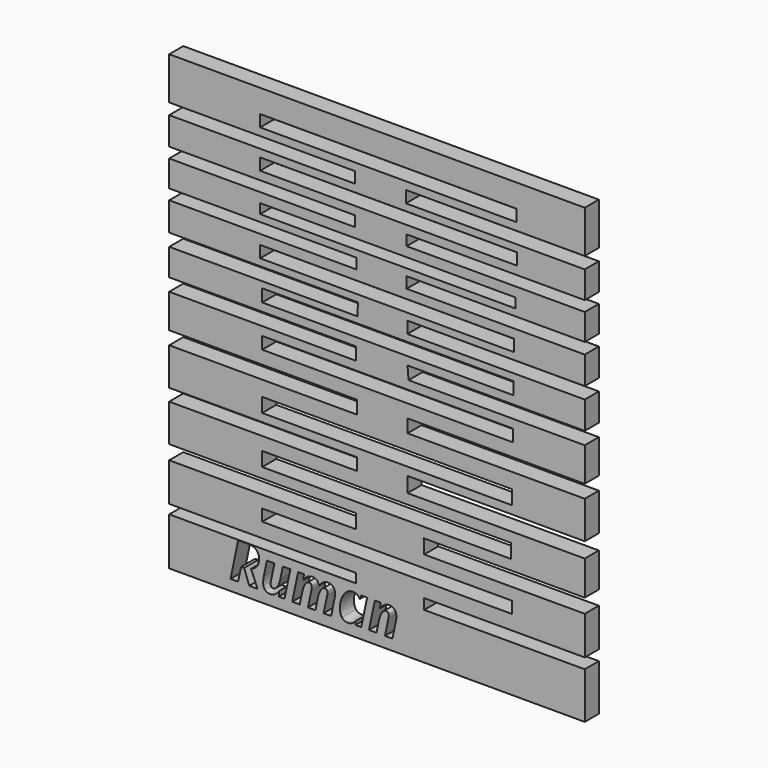
from build123d import *

# Parameters (mm, degrees)
F0_W     = 71.0323043168
F0_H     = 3.3161565661
F0_W_2   = 70.6573799253
F0_H_2   = 4.0292833
F0_W_3   = 70.9451846778
F0_H_3   = 4.0292795748
F0_W_4   = 71.2329894304
F0_H_4   = 3.4536689054
F0_W_5   = 71.4269280434
F0_H_5   = 3.5516149364
F0_W_6   = 72.2161792219
F0_H_6   = 3.3543054014
F0_W_7   = 72.6108029485
F0_H_7   = 2.7623660862
F0_W_8   = 73.0054229498
F0_H_8   = 3.3543035388
F0_W_9   = 72.8081129491
F0_H_9   = 3.3542998135
F1_DEPTH = 5


with BuildPart() as f1:
    # F0 (on Front) → F1 (new body)
    with BuildSketch(Plane.XZ):
        Polygon((56.8416342139, 59.4318918884), (-61.2653642893, 59.4318918884), (-61.2653642893, 47.3548732698), (-8.3857579157, 47.3548732698), (-8.3857579157, 44.1978834569), (-61.2653642893, 44.1978834569), (-61.2653642893, 36.3054014742), (-8.3857579157, 36.3054014742), (-8.3857579157, 33.345721662), (-61.2653642893, 33.345721662), (-61.2653642893, 25.8478671312), (-7.9911341891, 25.8478671312), (-7.9911341891, 22.8881891817), (-61.2653642893, 22.8881891817), (-61.2653642893, 14.7983971983), (-7.5965109281, 14.7983971983), (-7.7938223258, 11.2467817962), (-61.2653642893, 11.2467817962), (-61.2653642893, 3.597572213), (-8.2024643198, 3.597572213), (-8.2024643198, 0), (-61.2653642893, 0), (-61.2653642893, -9.6414927393), (-7.9146586359, -9.6414927393), (-7.9146586359, -13.3829684928), (-61.2653642893, -13.3829684928), (-61.2653642893, -24.0317825228), (-7.9146586359, -24.0317825228), (-7.9146586359, -27.4854488671), (-61.2653642893, -27.4854488671), (-61.2653642893, -38.1342619658), (-8.2024643198, -38.1342619658), (-8.2024643198, -42.1635434031), (-61.2653642893, -42.1635434031), (-61.2653642893, -53.0769191682), (-8.2024643198, -53.0769191682), (-8.2024643198, -55.6904152036), (-61.2653642893, -55.6904152036), (-61.2653642893, -69.217287004), (56.8416342139, -69.217287004), (56.8416342139, -56.0365952551), (11.2064361529, -56.0365952551), (11.2064361529, -53.0769191682), (56.8416342139, -53.0769191682), (56.8416342139, -42.1635434031), (11.2064361529, -42.1635434031), (11.0805211589, -38.1342619658), (56.8416342139, -38.1342619658), (56.8416342139, -28.3488668501), (6.4756311476, -28.3488668501), (6.4756311476, -24.0317825228), (56.8416342139, -24.0317825228), (56.8416342139, -13.3829684928), (6.4756311476, -13.3829684928), (6.4756311476, -9.6414927393), (56.8416342139, -9.6414927393), (56.8416342139, 0), (6.7634368315, 0), (6.4756311476, 3.597572213), (56.8416342139, 3.597572213), (56.8416342139, 11.4440945908), (6.4126392826, 11.4440945908), (6.4126392826, 14.7983971983), (56.8416342139, 14.7983971983), (56.8416342139, 22.6908754557), (6.215327885, 22.6908754557), (6.215327885, 25.8478671312), (56.8416342139, 25.8478671312), (56.8416342139, 33.345721662), (6.215327885, 33.345721662), (6.215327885, 36.3054014742), (56.8416342139, 36.3054014742), (56.8416342139, 44.0005660057), (6.0180136934, 44.0005660057), (6.0180136934, 47.3548732698), (56.8416342139, 47.3548732698), align=None)
        with BuildLine():
            Line((-39.9708433106, -62.1806918821), (-40.8165115853, -62.1806918821))
            Line((-40.8165115853, -62.1806918821), (-41.6621798601, -66.1657899618))
            Line((-41.6621798601, -66.1657899618), (-43.8286364887, -66.1657899618))
            Line((-43.8286364887, -66.1657899618), (-41.6349002383, -55.7790739743))
            Line((-41.6349002383, -55.7790739743), (-39.0842556032, -55.7790739743))
            add(Edge.make_bspline(
                [(-39.0842556032, -55.7790739743), (-37.3997389591, -55.7790739743), (-36.5540706844, -56.5042572529)],
                knots=[0, 0, 0, 1, 1, 1], degree=2))
            add(Edge.make_bspline(
                [(-36.5540706844, -56.5042572529), (-35.7084024096, -57.2294405316), (-35.7084024096, -58.6275211471)],
                knots=[0, 0, 0, 1, 1, 1], degree=2))
            add(Edge.make_bspline(
                [(-35.7084024096, -58.6275211471), (-35.7084024096, -59.7505322431), (-36.2983242303, -60.5564177361)],
                knots=[0, 0, 0, 1, 1, 1], degree=2))
            add(Edge.make_bspline(
                [(-36.2983242303, -60.5564177361), (-36.888246051, -61.3623032291), (-37.9976173362, -61.7533111411)],
                knots=[0, 0, 0, 1, 1, 1], degree=2))
            Line((-37.9976173362, -61.7533111411), (-36.1426030561, -66.1657899618))
            Line((-36.1426030561, -66.1657899618), (-38.5022903388, -66.1657899618))
            Line((-38.5022903388, -66.1657899618), (-39.9708433106, -62.1806918821))
        make_face(mode=Mode.SUBTRACT)
        with BuildLine():
            Line((-34.3876140558, -62.5148672488), (-33.4851132357, -58.2228734242))
            Line((-33.4851132357, -58.2228734242), (-31.3482095306, -58.2228734242))
            Line((-31.3482095306, -58.2228734242), (-32.321182707, -62.8626824263))
            add(Edge.make_bspline(
                [(-32.321182707, -62.8626824263), (-32.4348477977, -63.3446224108), (-32.4348477977, -63.708350701)],
                knots=[0, 0, 0, 1, 1, 1], degree=2))
            add(Edge.make_bspline(
                [(-32.4348477977, -63.708350701), (-32.4348477977, -64.5812985976), (-31.6664717846, -64.5812985976)],
                knots=[0, 0, 0, 1, 1, 1], degree=2))
            add(Edge.make_bspline(
                [(-31.6664717846, -64.5812985976), (-31.014034164, -64.5812985976), (-30.4809448886, -63.7720031518)],
                knots=[0, 0, 0, 1, 1, 1], degree=2))
            add(Edge.make_bspline(
                [(-30.4809448886, -63.7720031518), (-29.9478556133, -62.9627077061), (-29.6432331702, -61.5123411489)],
                knots=[0, 0, 0, 1, 1, 1], degree=2))
            Line((-29.6432331702, -61.5123411489), (-28.9453295134, -58.2228734242))
            Line((-28.9453295134, -58.2228734242), (-26.8084258084, -58.2228734242))
            Line((-26.8084258084, -58.2228734242), (-28.4906691506, -66.1657899618))
            Line((-28.4906691506, -66.1657899618), (-30.1251731548, -66.1657899618))
            Line((-30.1251731548, -66.1657899618), (-29.9751352351, -64.6949636883))
            Line((-29.9751352351, -64.6949636883), (-30.0183279695, -64.6949636883))
            add(Edge.make_bspline(
                [(-30.0183279695, -64.6949636883), (-31.0481336912, -66.3090079761), (-32.5416929829, -66.3090079761)],
                knots=[0, 0, 0, 1, 1, 1], degree=2))
            add(Edge.make_bspline(
                [(-32.5416929829, -66.3090079761), (-33.5214860647, -66.3090079761), (-34.0397988782, -65.7224961081)],
                knots=[0, 0, 0, 1, 1, 1], degree=2))
            add(Edge.make_bspline(
                [(-34.0397988782, -65.7224961081), (-34.5581116918, -65.1359842401), (-34.5581116918, -64.026612955)],
                knots=[0, 0, 0, 1, 1, 1], degree=2))
            add(Edge.make_bspline(
                [(-34.5581116918, -64.026612955), (-34.5581116918, -63.367355429), (-34.3876140558, -62.5148672488)],
                knots=[0, 0, 0, 1, 1, 1], degree=2))
        make_face(mode=Mode.SUBTRACT)
        with BuildLine():
            add(Edge.make_bspline(
                [(-23.0847574373, -59.6936996978), (-22.0481318102, -58.0751088063), (-20.5613924239, -58.0751088063)],
                knots=[0, 0, 0, 1, 1, 1], degree=2))
            add(Edge.make_bspline(
                [(-20.5613924239, -58.0751088063), (-19.0064539832, -58.0751088063), (-18.7018315402, -59.6936996978)],
                knots=[0, 0, 0, 1, 1, 1], degree=2))
            Line((-18.7018315402, -59.6936996978), (-18.6586388057, -59.6936996978))
            add(Edge.make_bspline(
                [(-18.6586388057, -59.6936996978), (-18.1744255193, -58.9116838738), (-17.5174412951, -58.4933963401)],
                knots=[0, 0, 0, 1, 1, 1], degree=2))
            add(Edge.make_bspline(
                [(-17.5174412951, -58.4933963401), (-16.8604570709, -58.0751088063), (-16.114814076, -58.0751088063)],
                knots=[0, 0, 0, 1, 1, 1], degree=2))
            add(Edge.make_bspline(
                [(-16.114814076, -58.0751088063), (-15.1486608051, -58.0751088063), (-14.6405778497, -58.6786704379)],
                knots=[0, 0, 0, 1, 1, 1], degree=2))
            add(Edge.make_bspline(
                [(-14.6405778497, -58.6786704379), (-14.1324948943, -59.2822320695), (-14.1324948943, -60.362050431)],
                knots=[0, 0, 0, 1, 1, 1], degree=2))
            add(Edge.make_bspline(
                [(-14.1324948943, -60.362050431), (-14.1324948943, -60.9008229609), (-14.2961726249, -61.6396460504)],
                knots=[0, 0, 0, 1, 1, 1], degree=2))
            Line((-14.2961726249, -61.6396460504), (-15.2418661795, -66.1657899618))
            Line((-15.2418661795, -66.1657899618), (-17.3787698845, -66.1657899618))
            Line((-17.3787698845, -66.1657899618), (-16.3989768027, -61.5259809597))
            add(Edge.make_bspline(
                [(-16.3989768027, -61.5259809597), (-16.285311712, -61.0440409752), (-16.285311712, -60.680312685)],
                knots=[0, 0, 0, 1, 1, 1], degree=2))
            add(Edge.make_bspline(
                [(-16.285311712, -60.680312685), (-16.285311712, -59.8073647885), (-16.9809420671, -59.8073647885)],
                knots=[0, 0, 0, 1, 1, 1], degree=2))
            add(Edge.make_bspline(
                [(-16.9809420671, -59.8073647885), (-17.6356529895, -59.8073647885), (-18.1653323121, -60.6030204233)],
                knots=[0, 0, 0, 1, 1, 1], degree=2))
            add(Edge.make_bspline(
                [(-18.1653323121, -60.6030204233), (-18.6950116347, -61.3986760582), (-19.0064539832, -62.8626824263)],
                knots=[0, 0, 0, 1, 1, 1], degree=2))
            Line((-19.0064539832, -62.8626824263), (-19.6884445274, -66.1657899618))
            Line((-19.6884445274, -66.1657899618), (-21.8276215342, -66.1657899618))
            Line((-21.8276215342, -66.1657899618), (-20.8546483579, -61.5259809597))
            add(Edge.make_bspline(
                [(-20.8546483579, -61.5259809597), (-20.7409832672, -61.0440409752), (-20.7409832672, -60.680312685)],
                knots=[0, 0, 0, 1, 1, 1], degree=2))
            add(Edge.make_bspline(
                [(-20.7409832672, -60.680312685), (-20.7409832672, -59.8073647885), (-21.4366136222, -59.8073647885)],
                knots=[0, 0, 0, 1, 1, 1], degree=2))
            add(Edge.make_bspline(
                [(-21.4366136222, -59.8073647885), (-22.0890512428, -59.8073647885), (-22.6221405182, -60.6177968851)],
                knots=[0, 0, 0, 1, 1, 1], degree=2))
            add(Edge.make_bspline(
                [(-22.6221405182, -60.6177968851), (-23.1552297935, -61.4282289817), (-23.4598522366, -62.8763222372)],
                knots=[0, 0, 0, 1, 1, 1], degree=2))
            Line((-23.4598522366, -62.8763222372), (-24.1577558934, -66.1657899618))
            Line((-24.1577558934, -66.1657899618), (-26.2946595984, -66.1657899618))
            Line((-26.2946595984, -66.1657899618), (-24.6124162562, -58.2228734242))
            Line((-24.6124162562, -58.2228734242), (-22.977912252, -58.2228734242))
            Line((-22.977912252, -58.2228734242), (-23.1279501717, -59.6936996978))
            Line((-23.1279501717, -59.6936996978), (-23.0847574373, -59.6936996978))
        make_face(mode=Mode.SUBTRACT)
        with BuildLine():
            add(Edge.make_bspline(
                [(-8.2423698946, -65.1359842401), (-9.1948833546, -66.3090079761), (-10.508851803, -66.3090079761)],
                knots=[0, 0, 0, 1, 1, 1], degree=2))
            add(Edge.make_bspline(
                [(-10.508851803, -66.3090079761), (-11.5545706374, -66.3090079761), (-12.1547223163, -65.5519984721)],
                knots=[0, 0, 0, 1, 1, 1], degree=2))
            add(Edge.make_bspline(
                [(-12.1547223163, -65.5519984721), (-12.7548739951, -64.7949889681), (-12.7548739951, -63.4310078797)],
                knots=[0, 0, 0, 1, 1, 1], degree=2))
            add(Edge.make_bspline(
                [(-12.7548739951, -63.4310078797), (-12.7548739951, -62.023834057), (-12.243381087, -60.7485117394)],
                knots=[0, 0, 0, 1, 1, 1], degree=2))
            add(Edge.make_bspline(
                [(-12.243381087, -60.7485117394), (-11.7318881789, -59.4731894218), (-10.899859715, -58.7741491141)],
                knots=[0, 0, 0, 1, 1, 1], degree=2))
            add(Edge.make_bspline(
                [(-10.899859715, -58.7741491141), (-10.0678312511, -58.0751088063), (-9.0743983585, -58.0751088063)],
                knots=[0, 0, 0, 1, 1, 1], degree=2))
            add(Edge.make_bspline(
                [(-9.0743983585, -58.0751088063), (-8.3855879089, -58.0751088063), (-7.8843248589, -58.3729113439)],
                knots=[0, 0, 0, 1, 1, 1], degree=2))
            add(Edge.make_bspline(
                [(-7.8843248589, -58.3729113439), (-7.383061809, -58.6707138815), (-7.1057189877, -59.239039335)],
                knots=[0, 0, 0, 1, 1, 1], degree=2))
            Line((-7.1057189877, -59.239039335), (-7.0488864423, -59.239039335))
            Line((-7.0488864423, -59.239039335), (-6.6442387195, -58.2228734242))
            Line((-6.6442387195, -58.2228734242), (-4.9960949044, -58.2228734242))
            Line((-4.9960949044, -58.2228734242), (-6.6874314539, -66.1657899618))
            Line((-6.6874314539, -66.1657899618), (-8.3151155527, -66.1657899618))
            Line((-8.3151155527, -66.1657899618), (-8.2150902728, -65.1359842401))
            Line((-8.2150902728, -65.1359842401), (-8.2423698946, -65.1359842401))
        make_face(mode=Mode.SUBTRACT)
        with BuildLine():
            Line((3.1377789855, -61.6396460504), (2.192085431, -66.1657899618))
            Line((2.192085431, -66.1657899618), (0.055181726, -66.1657899618))
            Line((0.055181726, -66.1657899618), (1.0281549023, -61.5259809597))
            add(Edge.make_bspline(
                [(1.0281549023, -61.5259809597), (1.141819993, -61.0440409752), (1.141819993, -60.680312685)],
                knots=[0, 0, 0, 1, 1, 1], degree=2))
            add(Edge.make_bspline(
                [(1.141819993, -60.680312685), (1.141819993, -59.8073647885), (0.3734439799, -59.8073647885)],
                knots=[0, 0, 0, 1, 1, 1], degree=2))
            add(Edge.make_bspline(
                [(0.3734439799, -59.8073647885), (-0.2789936407, -59.8073647885), (-0.812082916, -60.6177968851)],
                knots=[0, 0, 0, 1, 1, 1], degree=2))
            add(Edge.make_bspline(
                [(-0.812082916, -60.6177968851), (-1.3451721914, -61.4282289817), (-1.6497946344, -62.8763222372)],
                knots=[0, 0, 0, 1, 1, 1], degree=2))
            Line((-1.6497946344, -62.8763222372), (-2.3476982913, -66.1657899618))
            Line((-2.3476982913, -66.1657899618), (-4.4846019963, -66.1657899618))
            Line((-4.4846019963, -66.1657899618), (-2.8023586541, -58.2228734242))
            Line((-2.8023586541, -58.2228734242), (-1.1678546499, -58.2228734242))
            Line((-1.1678546499, -58.2228734242), (-1.3178925696, -59.6936996978))
            Line((-1.3178925696, -59.6936996978), (-1.2746998351, -59.6936996978))
            add(Edge.make_bspline(
                [(-1.2746998351, -59.6936996978), (-0.238074208, -58.0751088063), (1.2486651782, -58.0751088063)],
                knots=[0, 0, 0, 1, 1, 1], degree=2))
            add(Edge.make_bspline(
                [(1.2486651782, -58.0751088063), (2.22845826, -58.0751088063), (2.7649574881, -58.6673039288)],
                knots=[0, 0, 0, 1, 1, 1], degree=2))
            add(Edge.make_bspline(
                [(2.7649574881, -58.6673039288), (3.3014567161, -59.2594990513), (3.3014567161, -60.362050431)],
                knots=[0, 0, 0, 1, 1, 1], degree=2))
            add(Edge.make_bspline(
                [(3.3014567161, -60.362050431), (3.3014567161, -60.8803632446), (3.1377789855, -61.6396460504)],
                knots=[0, 0, 0, 1, 1, 1], degree=2))
        make_face(mode=Mode.SUBTRACT)
        with Locations((0.6905924529, -47.2752898932)):
            Rectangle(F0_W, F0_H, mode=Mode.SUBTRACT)
        with Locations((0.5031302571, -33.2415653393)):
            Rectangle(F0_W_2, F0_H_2, mode=Mode.SUBTRACT)
        with Locations((0.6470326334, -19.7146935388)):
            Rectangle(F0_W_3, F0_H_3, mode=Mode.SUBTRACT)
        with Locations((0.7909350097, -4.1731834644)):
            Rectangle(F0_W_4, F0_H_4, mode=Mode.SUBTRACT)
        with Locations((0.8879043162, 7.6951666269)):
            Rectangle(F0_W_5, F0_H_5, mode=Mode.SUBTRACT)
        with Locations((0.6905924529, 18.4486685321)):
            Rectangle(F0_W_6, F0_H_6, mode=Mode.SUBTRACT)
        with Locations((0.8879043162, 29.20217067)):
            Rectangle(F0_W_7, F0_H_7, mode=Mode.SUBTRACT)
        with Locations((1.0852143168, 40.3502956033)):
            Rectangle(F0_W_8, F0_H_8, mode=Mode.SUBTRACT)
        with Locations((0.9865593165, 51.2024555355)):
            Rectangle(F0_W_9, F0_H_9, mode=Mode.SUBTRACT)
    extrude(amount=F1_DEPTH)


solid = f1.part
